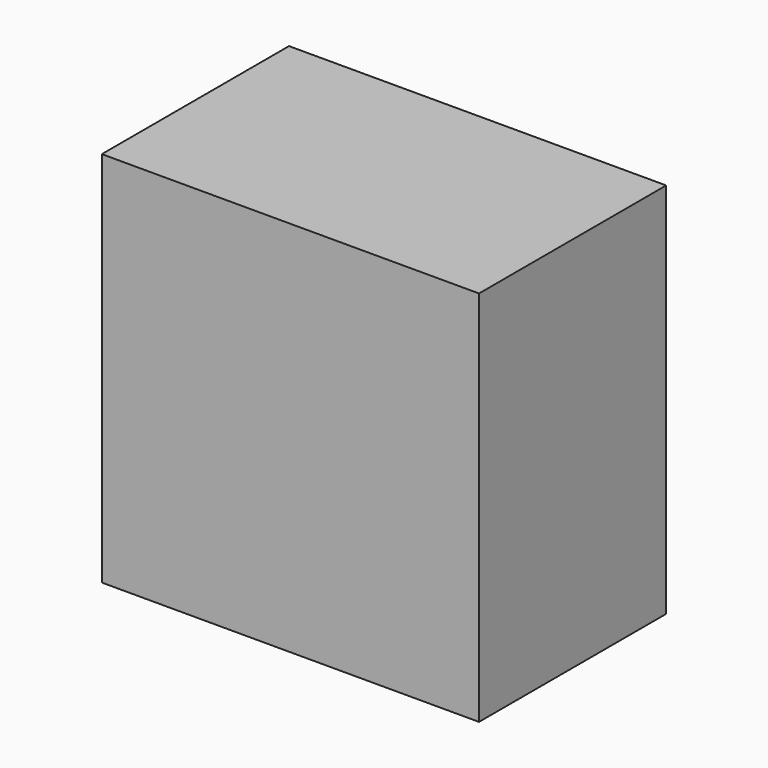
from build123d import *

# Parameters (mm, degrees)
F0_W     = 15.8
F0_H     = 15.8
F1_DEPTH = 9.8
F2_R     = 2.45
F3_DEPTH = 1.83
F4_R     = 0.1


with BuildPart() as f1:
    # F0 (on Front) → F1 (new body)
    with BuildSketch(Plane.XZ):
        with Locations((10.663698, 7.9)):
            Rectangle(F0_W, F0_H)
    extrude(amount=F1_DEPTH)

    # F2 (on Front) → F3 (join)
    with BuildSketch(Plane.XZ):
        with Locations((6.688698, 11.875)):
            Circle(F2_R)
        with Locations((14.638698, 11.875)):
            Circle(F2_R)
        with Locations((6.688698, 3.925)):
            Circle(F2_R)
        with Locations((14.638698, 3.925)):
            Circle(F2_R)
    extrude(amount=-F3_DEPTH)

    # F4
    f4_edges = [f1.edges().sort_by_distance(p)[0] for p in [
        (12.188698, 1.83, 11.875),
        (4.238698, 1.83, 11.875),
        (4.238698, 1.83, 3.925),
        (12.188698, 1.83, 3.925),
    ]]
    fillet(f4_edges, radius=F4_R)


solid = f1.part
